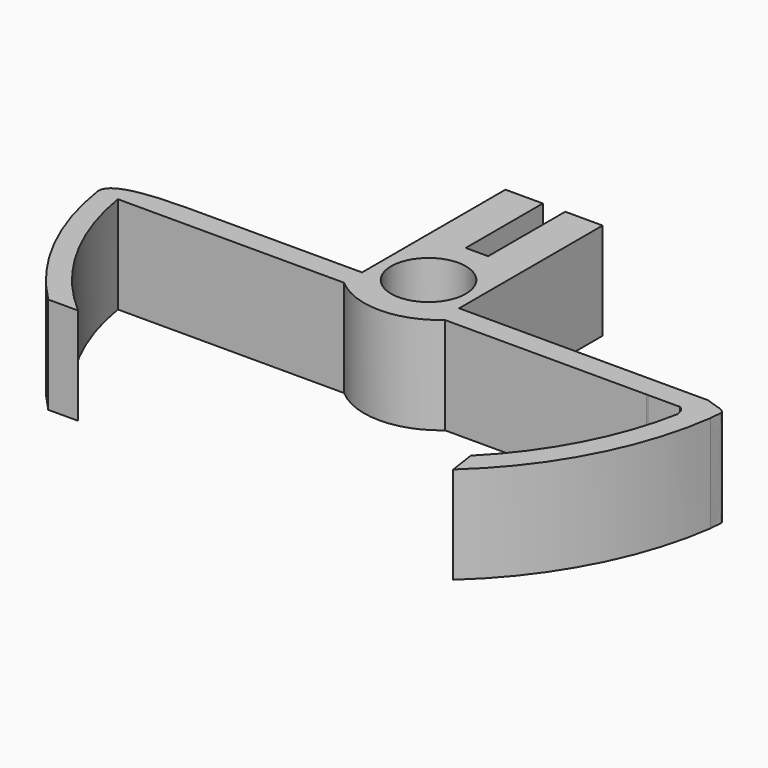
from build123d import *

# Parameters (mm, degrees)
F0_W     = 13
F0_H     = 24
F2_DEPTH = 13
F1_R     = 5
F3_DEPTH = 13
F5_DEPTH = 12.9


with BuildPart() as f2:
    # F0 (on Top) → F2 (new body)
    with BuildSketch(Plane.XY):
        with BuildLine():
            Line((-6.5, -3), (-10.0215210102, -3))
            add(Edge.make_bspline(
                [(-39.5474398666, -6), (-39.987434644, -3.0998888332), (-28.0679892003, -2.9708801078), (-24.4776253005, -3.0066990198), (-20.0953720274, -2.997292433), (-10.1037282836, -3), (-10.0215210102, -3)],
                knots=[0, 0, 0, 0, 0.3086092965, 0.5067485278, 0.7164039889, 1, 1, 1, 1], degree=3))
            Line((-39.5474398666, -6), (-36.7930133316, -6))
            Line((-36.7930133316, -6), (-6.5, -6))
            Line((-6.5, -6), (-6.5, -3))
        make_face()
        with Locations((0, 9)):
            Rectangle(F0_W, F0_H)
        Polygon((6.5, -3), (-6.5, -3), (-6.5, -6), (7, -6), (7, -3), align=None)
        with BuildLine():
            Line((-36.7930133316, -6), (-39.5474398666, -6))
            ThreePointArc((-39.5474398666, -6), (-35.6991938904, -18.0434906705), (-28.2842712475, -28.2842712475))
            Line((-28.2842712475, -28.2842712475), (-24.2842712475, -28.2842712475))
            ThreePointArc((-24.2842712475, -28.2842712475), (-32.5077815168, -18.2474647794), (-36.7930133316, -6))
        make_face()
        with BuildLine():
            Line((7, -6), (-6.5, -6))
            ThreePointArc((-6.5, -6), (0.25, -8.5279488827), (7, -6))
        make_face()
        with BuildLine():
            Line((39.8873413504, -3), (7, -3))
            Line((7, -3), (7, -6))
            Line((7, -6), (33.9890345931, -6))
            Line((33.9890345931, -6), (34.1910820365, -6))
            add(Edge.make_bspline(
                [(34.1910820365, -6), (36.0233504005, -5.9865327697), (37.61673459, -5.6184481892), (38.4549424052, -6)],
                knots=[0.0219001831, 0.0219001831, 0.0219001831, 0.0219001831, 0.6204731295, 0.6204731295, 0.6204731295, 0.6204731295], degree=3))
            Line((38.4549424052, -6), (39.5474398666, -6))
            ThreePointArc((39.5474398666, -6), (39.4312622039, -6.7212767397), (39.3019308294, -7.4403113564))
            ThreePointArc((39.3019308294, -7.4403113564), (35.3637009344, -18.6924759254), (28.2842712475, -28.2842712475))
            Line((28.2842712475, -28.2842712475), (28.8087523399, -31.880094539))
            ThreePointArc((28.8087523399, -31.880094539), (37.9522247686, -20.1472895028), (42.5474398666, -6))
            add(Edge.make_bspline(
                [(39.8873413504, -3), (40.6612767941, -3.3893066613), (43.3643490326, -3.7338272559), (42.4692446307, -5.1334802328), (42.5474398666, -6)],
                knots=[0, 0, 0, 0, 0.5508525768, 1, 1, 1, 1], degree=3))
        make_face()
        with BuildLine():
            Line((34.1910820365, -6), (33.9890345931, -6))
            add(Edge.make_bspline(
                [(33.9890345931, -6), (34.0566866614, -6.0005107576), (34.124044238, -6.0004927299), (34.1910820365, -6)],
                knots=[0, 0, 0, 0, 0.0219001831, 0.0219001831, 0.0219001831, 0.0219001831], degree=3))
        make_face()
        with BuildLine():
            add(Edge.make_bspline(
                [(34.1910820365, -6), (36.0233504005, -5.9865327697), (37.61673459, -5.6184481892), (38.4549424052, -6)],
                knots=[0.0219001831, 0.0219001831, 0.0219001831, 0.0219001831, 0.6204731295, 0.6204731295, 0.6204731295, 0.6204731295], degree=3))
            Line((34.1910820365, -6), (38.4549424052, -6))
        make_face()
        with BuildLine():
            Line((39.5474398666, -6), (38.4549424052, -6))
            add(Edge.make_bspline(
                [(38.4549424052, -6), (38.9864104423, -6.2419240053), (39.2142802148, -6.7852190746), (39.3019308294, -7.4403113564)],
                knots=[0.6204731295, 0.6204731295, 0.6204731295, 0.6204731295, 1, 1, 1, 1], degree=3))
            ThreePointArc((39.3019308294, -7.4403113564), (39.4312622039, -6.7212767397), (39.5474398666, -6))
        make_face()
    extrude(amount=F2_DEPTH)

    # F1 (on Top) → F3 (cut, through all)
    with BuildSketch(Plane.XY):
        Circle(F1_R)
    extrude(amount=F3_DEPTH, mode=Mode.SUBTRACT)

    # F4 (on face) → F5 (cut)
    with BuildSketch(Plane(origin=(0, 21, 0), x_dir=(-1, 0, 0), z_dir=(0, 1, 0))):
        with BuildLine():
            ThreePointArc((-1.5, 10.4764934301), (-2.4173849507, 3.0044671365), (4.25, 6.5))
            ThreePointArc((4.25, 6.5), (3.4955328635, 8.9173849507), (1.5, 10.4764934301))
            ThreePointArc((1.5, 10.4764934301), (0, 10.75), (-1.5, 10.4764934301))
        make_face()
        with BuildLine():
            ThreePointArc((-1.5, 10.4764934301), (0, 10.75), (1.5, 10.4764934301))
            Line((1.5, 10.4764934301), (1.5, 13))
            Line((1.5, 13), (-1.5, 13))
            Line((-1.5, 13), (-1.5, 10.4764934301))
        make_face()
    extrude(amount=-F5_DEPTH, mode=Mode.SUBTRACT)


solid = f2.part
